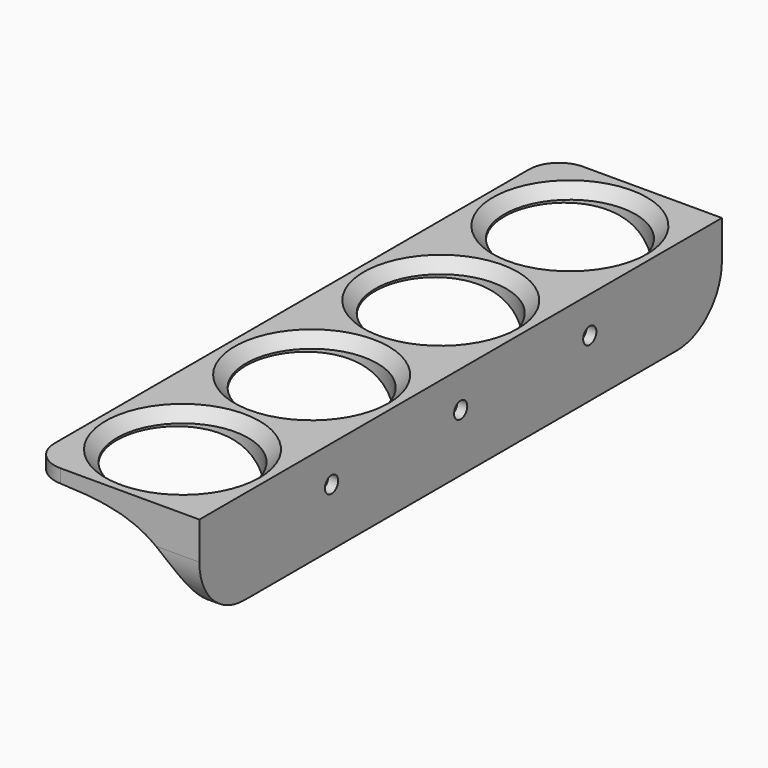
from build123d import *

# Parameters (mm, degrees)
F0_W           = 45
F0_H           = 174
F0_R           = 17.5
F1_DEPTH       = 12.5
F3_DEPTH       = 87.001
F3_DEPTH_BACK  = 87.001
F5_D           = 4.4
F5_START       = 37.3580295
F5_START_2     = 37.3580296
F5_CBORE_D     = 8.25
F5_CBORE_DEPTH = 5
F6_SIZE        = 3
F7_R           = 15
F8_R           = 8


with BuildPart() as f1:
    # F0 (on Top) → F1 (new body, symmetric)
    with BuildSketch(Plane.XY):
        Rectangle(F0_W, F0_H)
        with Locations((0, -64.5)):
            Circle(F0_R, mode=Mode.SUBTRACT)
        with Locations((0, -21.5)):
            Circle(F0_R, mode=Mode.SUBTRACT)
        with Locations((0, 21.5)):
            Circle(F0_R, mode=Mode.SUBTRACT)
        with Locations((0, 64.5)):
            Circle(F0_R, mode=Mode.SUBTRACT)
    extrude(amount=F1_DEPTH, both=True)

    # F2 (on Front) → F3 (cut, two sides)
    with BuildSketch(Plane.XZ) as f3_sk:
        with BuildLine():
            add(Edge.make_bspline(
                [(19.5, -12.5), (19.5, -6.5), (9.4204728662, 7.9627589697), (-7.5, 9), (-22.5, 9)],
                knots=[0, 0, 0, 0, 0.4325601059, 1, 1, 1, 1], degree=3))
            Line((-22.5, 9), (-22.5, -12.5))
            Line((-22.5, -12.5), (19.5, -12.5))
        make_face()
    extrude(amount=-F3_DEPTH, mode=Mode.SUBTRACT)
    extrude(f3_sk.sketch, amount=F3_DEPTH_BACK, mode=Mode.SUBTRACT)

    # F5 (through all)
    # its depths count from where the whole tool has entered the part; down to there all is cleared
    with Locations(Plane(origin=(-22.5, 0, 0), x_dir=(0, -1, 0), z_dir=(-1, 0, 0))):
        with Locations((-42.9993471899, 2.8437051457, -F5_START_2), (0, 2.8437051457, -F5_START_2), (42.9993471899, 2.8437051457, -F5_START)):
            CounterBoreHole(F5_D / 2, F5_CBORE_D / 2, F5_CBORE_DEPTH)

    # F6
    f6_edges = [f1.edges().sort_by_distance(p)[0] for p in [
        (-17.5, 64.5, 12.5),
        (-17.5, 21.5, 12.5),
        (-17.5, -21.5, 12.5),
        (-17.5, -64.5, 12.5),
    ]]
    chamfer(f6_edges, length=F6_SIZE)

    # F7
    f7_edges = [f1.edges().sort_by_distance(p)[0] for p in [
        (21, -87, -12.5),
        (21, 87, -12.5),
    ]]
    fillet(f7_edges, radius=F7_R)

    # F8
    f8_edges = [f1.edges().sort_by_distance(p)[0] for p in [
        (-22.5, 87, 10.75),
        (-22.5, -87, 10.75),
    ]]
    fillet(f8_edges, radius=F8_R)


solid = f1.part
